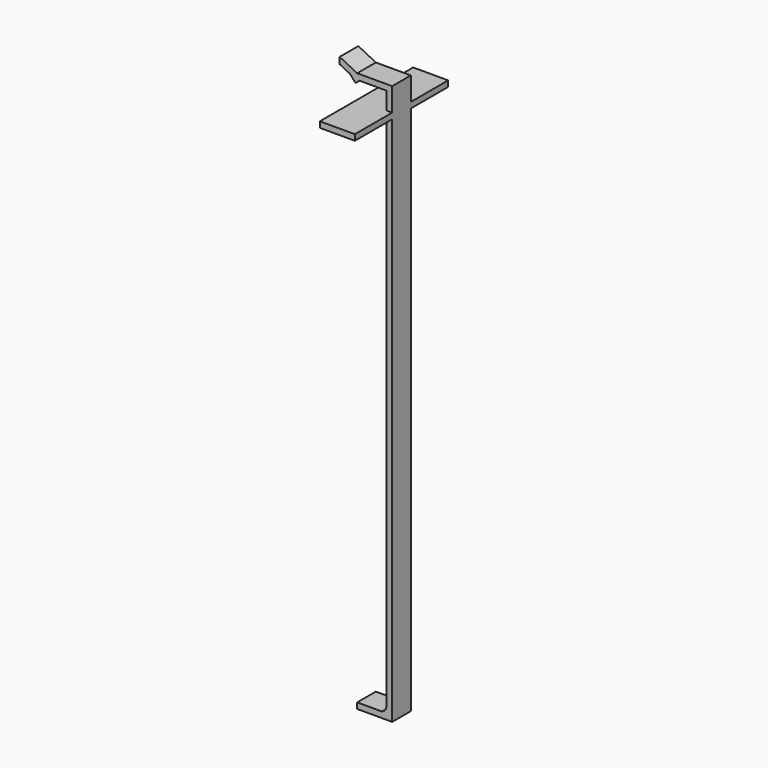
from build123d import *

# Parameters (mm, degrees)
F0_W          = 2.54
F0_H          = 2.54
F1_DEPTH      = 5.08
F1_DEPTH_BACK = 5.08
F0_W_2        = 12.7
F2_DEPTH      = 25.4
F2_DEPTH_BACK = 25.4
F3_R          = 2.54


with BuildPart() as f1:
    # F0 (on Front) → F1 (new body, two sides)
    with BuildSketch(Plane.XZ) as f1_sk:
        Polygon((-2.54, 111.76), (0, 111.76), (0, 121.92), (-15.24, 121.92), (-22.86, 125.73), (-22.86, 122.8901936686), (-18.4033727053, 120.6618800212), (-15.8396126628, 119.38), (-14.30558227, 119.38), (-2.54, 119.38), align=None)
        Polygon((-15.2376033366, -121.92), (0, -121.92), (0, 109.22), (-2.54, 109.22), (-2.54, -119.38), (-15.2376033366, -119.38), align=None)
        with Locations((-1.27, 110.49)):
            Rectangle(F0_W, F0_H)
        Polygon((-15.9520190209, 117.9121956229), (-14.30558227, 119.38), (-15.8396126628, 119.38), (-18.4033727053, 120.6618800212), align=None)
    extrude(amount=F1_DEPTH)
    extrude(f1_sk.sketch, amount=-F1_DEPTH_BACK)

    # F0 (on Front) → F2 (join, two sides)
    with BuildSketch(Plane.XZ) as f2_sk:
        with Locations((-1.27, 110.49)):
            Rectangle(F0_W, F0_H)
        with Locations((-8.89, 110.49)):
            Rectangle(F0_W_2, F0_H)
    extrude(amount=F2_DEPTH)
    extrude(f2_sk.sketch, amount=-F2_DEPTH_BACK)

    # F3
    f3_edges = [f1.edges().sort_by_distance(p)[0] for p in [
        (-2.54, 0, -119.38),
    ]]
    fillet(f3_edges, radius=F3_R)


solid = f1.part
